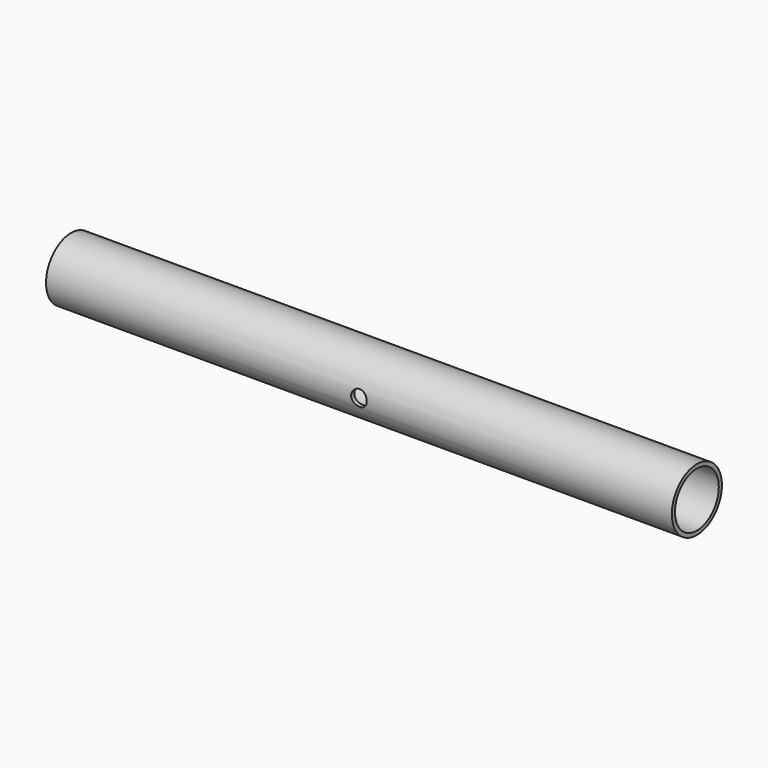
from build123d import *

# Parameters (mm, degrees)
F0_R          = 12.7
F0_R_2        = 11.1125
F3_DEPTH      = 177.8
F3_DEPTH_BACK = 76.2
F1_R          = 3.175
F2_DEPTH      = 25.4


with BuildPart() as f3:
    # F0 (on Right) → F3 (new body, two sides)
    with BuildSketch(Plane.YZ) as f3_sk:
        with Locations((-12.7, 0)):
            Circle(F0_R)
        with Locations((-12.7, 0)):
            Circle(F0_R_2, mode=Mode.SUBTRACT)
    extrude(amount=F3_DEPTH)
    extrude(f3_sk.sketch, amount=-F3_DEPTH_BACK)

    # F1 (on Front) → F2 (cut)
    with BuildSketch(Plane.XZ):
        with Locations((50.8, 0)):
            Circle(F1_R)
    extrude(amount=F2_DEPTH, mode=Mode.SUBTRACT)


solid = f3.part
